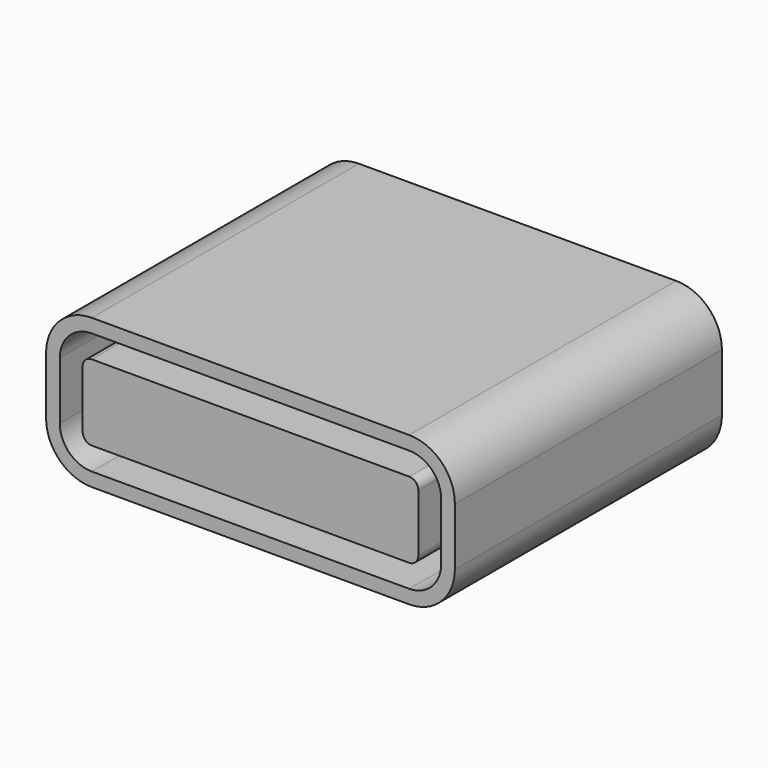
from build123d import *

# Parameters (mm, degrees)
PAD_DEPTH    = 7.3
POCKET_DEPTH = 6


with BuildPart() as part:
    # Sketch → Pad (new body)
    with BuildSketch(Plane.XZ):
        with BuildLine():
            ThreePointArc((-3.47, 3.26), (-4.177107, 2.967107), (-4.47, 2.26))
            Line((-4.47, 2.26), (-4.47, 1))
            ThreePointArc((-4.47, 1), (-4.177107, 0.292893), (-3.47, 0))
            Line((3.47, 0), (-3.47, 0))
            ThreePointArc((3.47, 0), (4.177107, 0.292893), (4.47, 1))
            Line((4.47, 2.26), (4.47, 1))
            ThreePointArc((4.47, 2.26), (4.177107, 2.967107), (3.47, 3.26))
            Line((-3.47, 3.26), (3.47, 3.26))
        make_face()
    extrude(amount=PAD_DEPTH)

    # Sketch001 (on Face10 of Pad) → Pocket (cut)
    with BuildSketch(Plane.XZ.offset(7.3)):
        with BuildLine():
            ThreePointArc((-3.47, 2.96), (-3.964975, 2.754975), (-4.17, 2.26))
            Line((-4.17, 2.26), (-4.17, 1))
            ThreePointArc((-4.17, 1), (-3.964975, 0.505025), (-3.47, 0.3))
            Line((-3.47, 0.3), (3.47, 0.3))
            ThreePointArc((3.47, 0.3), (3.964975, 0.505025), (4.17, 1))
            Line((4.17, 1), (4.17, 2.26))
            ThreePointArc((4.17, 2.26), (3.964975, 2.754975), (3.47, 2.96))
            Line((-3.47, 2.96), (3.47, 2.96))
        make_face()
        with BuildLine():
            ThreePointArc((-3.47, 2.46), (-3.611421, 2.401421), (-3.67, 2.26))
            Line((-3.67, 2.26), (-3.67, 1))
            ThreePointArc((-3.67, 1), (-3.611421, 0.858579), (-3.47, 0.8))
            Line((-3.47, 0.8), (3.47, 0.8))
            ThreePointArc((3.47, 0.8), (3.61212, 0.859281), (3.66999, 1.001982))
            Line((3.66999, 1.001982), (3.66999, 2.261982))
            ThreePointArc((3.66999, 2.261982), (3.610719, 2.40212), (3.47, 2.46))
            Line((-3.47, 2.46), (3.47, 2.46))
        make_face(mode=Mode.SUBTRACT)
    extrude(amount=-POCKET_DEPTH, mode=Mode.SUBTRACT)


solid = part.part
